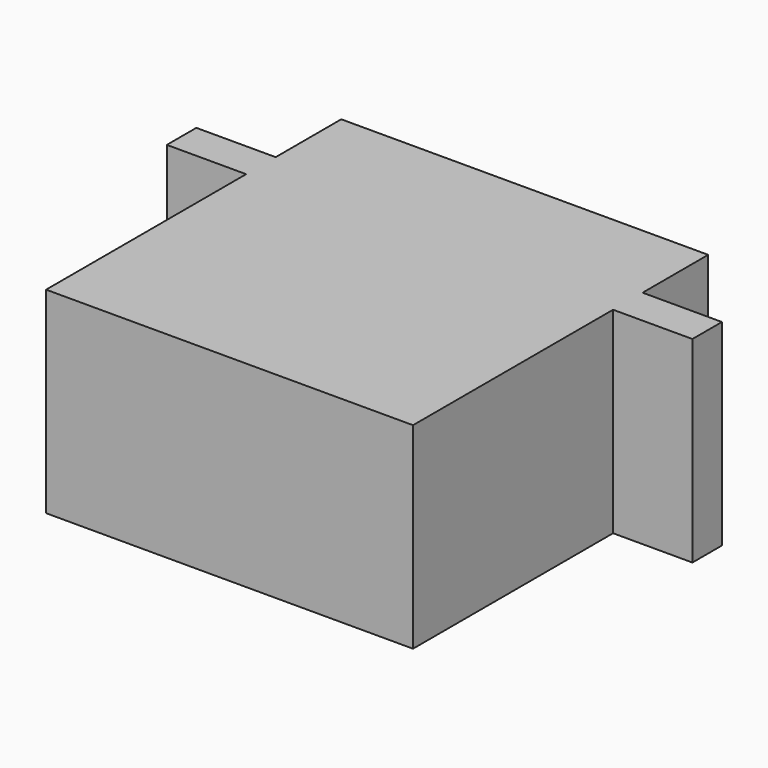
from build123d import *

# Parameters (mm, degrees)
F0_W     = 22.733
F0_H     = 5.08
F0_H_2   = 2.286
F0_W_2   = 4.9149
F0_H_3   = 15.494
F1_DEPTH = 12.192
F2_R     = 2.3495
F3_DEPTH = 2.54


with BuildPart() as f1:
    # F0 (on Top) → F1 (new body)
    with BuildSketch(Plane.XY):
        with Locations((0, 8.89)):
            Rectangle(F0_W, F0_H)
        with Locations((0, 5.207)):
            Rectangle(F0_W, F0_H_2)
        with Locations((-13.82395, 5.207)):
            Rectangle(F0_W_2, F0_H_2)
        with Locations((0, -3.683)):
            Rectangle(F0_W, F0_H_3)
        with Locations((13.82395, 5.207)):
            Rectangle(F0_W_2, F0_H_2)
    extrude(amount=F1_DEPTH)

    # F2 (on face) → F3 (join)
    with BuildSketch(Plane(origin=(0, 11.43, 0), x_dir=(-1, 0, 0), z_dir=(0, 1, 0))):
        with Locations((-6.7945, 6.096)):
            Circle(F2_R)
    extrude(amount=F3_DEPTH)


solid = f1.part
